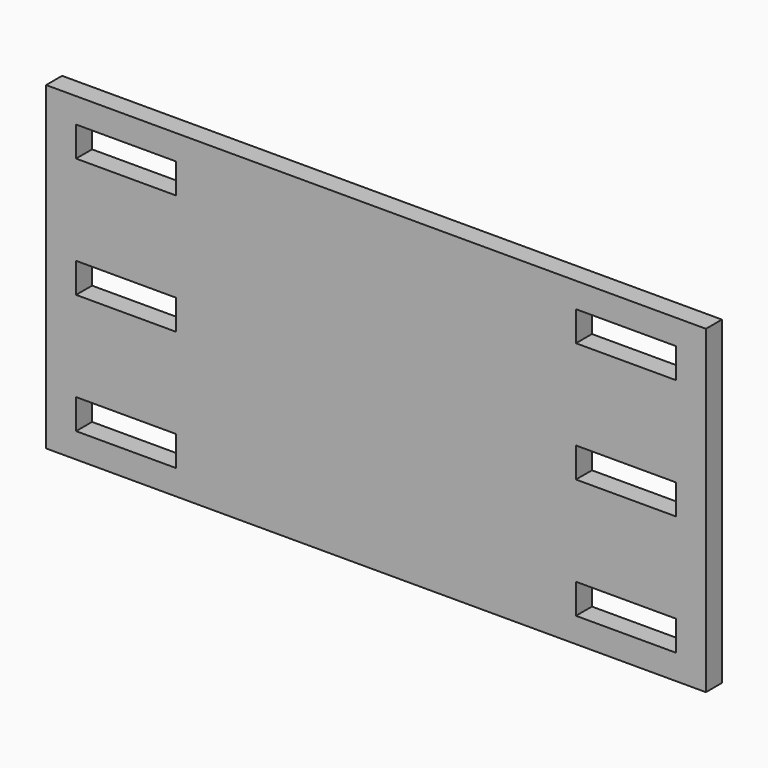
from build123d import *

# Parameters (mm, degrees)
F0_W     = 209.55
F0_H     = 101.6
F0_W_2   = 31.75
F0_H_2   = 9.525
F1_DEPTH = 6.35


with BuildPart() as f1:
    # F0 (on Front) → F1 (new body)
    with BuildSketch(Plane.XZ):
        Rectangle(F0_W, F0_H)
        with Locations((-79.375, -38.1)):
            Rectangle(F0_W_2, F0_H_2, mode=Mode.SUBTRACT)
        with Locations((-79.375, 0)):
            Rectangle(F0_W_2, F0_H_2, mode=Mode.SUBTRACT)
        with Locations((79.375, -38.1)):
            Rectangle(F0_W_2, F0_H_2, mode=Mode.SUBTRACT)
        with Locations((79.375, 0)):
            Rectangle(F0_W_2, F0_H_2, mode=Mode.SUBTRACT)
        with Locations((-79.375, 38.1)):
            Rectangle(F0_W_2, F0_H_2, mode=Mode.SUBTRACT)
        with Locations((79.375, 38.1)):
            Rectangle(F0_W_2, F0_H_2, mode=Mode.SUBTRACT)
    extrude(amount=F1_DEPTH)


solid = f1.part
